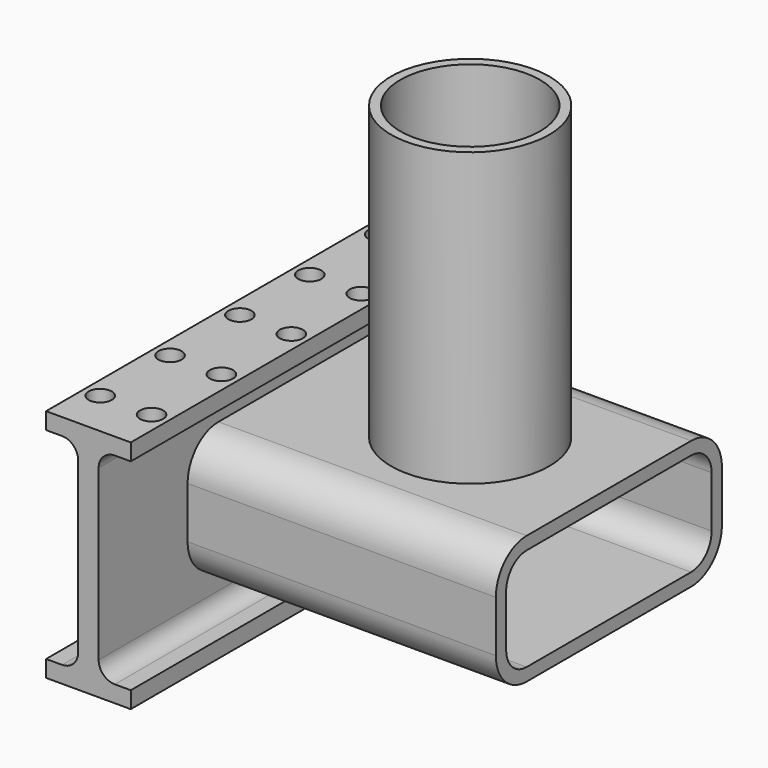
from build123d import *

# Parameters (mm, degrees)
F1_DEPTH = 254
F2_R     = 5.72172
F3_DEPTH = 25.4
F5_DEPTH = 152.4
F6_R     = 39.082199
F6_R_2   = 34.497025
F7_DEPTH = 144.272


with BuildPart() as f1:
    # F0 (on Front) → F1 (new body)
    with BuildSketch(Plane.XZ):
        with BuildLine():
            Line((-5.052177, -58.048494), (5.052177, -58.048494))
            Line((5.052177, -58.048494), (20.930452, -58.048494))
            Line((20.930452, -58.048494), (20.930452, -49.800038))
            Line((20.930452, -49.800038), (13.052177, -49.800038))
            ThreePointArc((13.052177, -49.800038), (7.395323, -47.456893), (5.052177, -41.800038))
            Line((5.052177, -41.800038), (5.052177, 41.800038))
            ThreePointArc((5.052177, 41.800038), (7.395323, 47.456893), (13.052177, 49.800038))
            Line((13.052177, 49.800038), (20.930452, 49.800038))
            Line((20.930452, 49.800038), (20.930452, 58.048494))
            Line((20.930452, 58.048494), (5.052177, 58.048494))
            Line((5.052177, 58.048494), (-5.052177, 58.048494))
            Line((-5.052177, 58.048494), (-20.930452, 58.048494))
            Line((-20.930452, 58.048494), (-20.930452, 49.800038))
            Line((-20.930452, 49.800038), (-13.052177, 49.800038))
            ThreePointArc((-13.052177, 49.800038), (-7.395323, 47.456893), (-5.052177, 41.800038))
            Line((-5.052177, 41.800038), (-5.052177, -41.800038))
            ThreePointArc((-5.052177, -41.800038), (-7.395323, -47.456893), (-13.052177, -49.800038))
            Line((-13.052177, -49.800038), (-20.930452, -49.800038))
            Line((-20.930452, -49.800038), (-20.930452, -58.048494))
            Line((-20.930452, -58.048494), (-5.052177, -58.048494))
        make_face()
    extrude(amount=F1_DEPTH)

    # F2 (on face) → F3 (cut)
    with BuildSketch(Plane.XY.offset(58.048494)):
        with Locations((12.7, -14.956662)):
            Circle(F2_R)
        with Locations((12.7, -58.136662)):
            Circle(F2_R)
        with Locations((12.7, -101.316662)):
            Circle(F2_R)
        with Locations((12.7, -144.496662)):
            Circle(F2_R)
        with Locations((12.7, -187.676662)):
            Circle(F2_R)
        with Locations((12.7, -230.856662)):
            Circle(F2_R)
        with Locations((-12.7, -230.856662)):
            Circle(F2_R)
        with Locations((-12.7, -187.676662)):
            Circle(F2_R)
        with Locations((-12.7, -144.496662)):
            Circle(F2_R)
        with Locations((-12.7, -101.316662)):
            Circle(F2_R)
        with Locations((-12.7, -58.136662)):
            Circle(F2_R)
        with Locations((-12.7, -14.956662)):
            Circle(F2_R)
    extrude(amount=-F3_DEPTH, mode=Mode.SUBTRACT)

    # F4 (on face) → F5 (join)
    with BuildSketch(Plane.YZ.offset(5.052177)):
        with BuildLine():
            Line((-59.313846, -12.7), (-59.313846, 12.7))
            ThreePointArc((-59.313846, 12.7), (-64.893462, 26.170384), (-78.363846, 31.75))
            Line((-78.363846, 31.75), (-179.963846, 31.75))
            ThreePointArc((-179.963846, 31.75), (-193.434231, 26.170384), (-199.013846, 12.7))
            Line((-199.013846, 12.7), (-199.013846, -12.7))
            ThreePointArc((-199.013846, -12.7), (-193.434231, -26.170384), (-179.963846, -31.75))
            Line((-179.963846, -31.75), (-78.363846, -31.75))
            ThreePointArc((-78.363846, -31.75), (-64.893462, -26.170384), (-59.313846, -12.7))
        make_face()
        with BuildLine():
            ThreePointArc((-65.663846, -12.7), (-69.38359, -21.680256), (-78.363846, -25.4))
            Line((-78.363846, -25.4), (-179.963846, -25.4))
            ThreePointArc((-179.963846, -25.4), (-188.944102, -21.680256), (-192.663846, -12.7))
            Line((-192.663846, -12.7), (-192.663846, 12.7))
            ThreePointArc((-192.663846, 12.7), (-188.944102, 21.680256), (-179.963846, 25.4))
            Line((-179.963846, 25.4), (-78.363846, 25.4))
            ThreePointArc((-78.363846, 25.4), (-69.38359, 21.680256), (-65.663846, 12.7))
            Line((-65.663846, 12.7), (-65.663846, -12.7))
        make_face(mode=Mode.SUBTRACT)
    extrude(amount=F5_DEPTH)

    # F6 (on face) → F7 (join)
    with BuildSketch(Plane.XY.offset(31.75)):
        with Locations((88.872177, -129.163846)):
            Circle(F6_R)
        with Locations((88.872177, -129.163846)):
            Circle(F6_R_2, mode=Mode.SUBTRACT)
    extrude(amount=F7_DEPTH)


solid = f1.part
